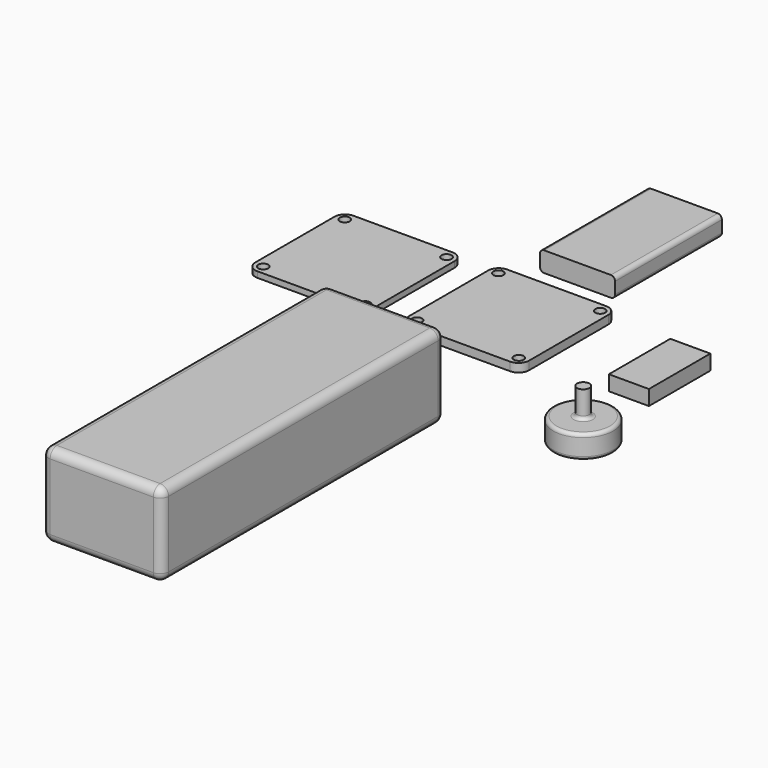
from build123d import *

# Parameters (mm, degrees)
F0_W      = 36
F0_H      = 36
F1_DEPTH  = 2.54
F2_R      = 3.175
F3_R      = 1.5
F4_DEPTH  = 2.54
F5_W      = 12
F5_H      = 23
F6_DEPTH  = 4.5
F7_W      = 36
F7_H      = 36
F8_DEPTH  = 1.75
F9_R      = 1.5
F10_DEPTH = 1.75
F11_R     = 3.175
F12_W     = 22.5
F12_H     = 40
F13_DEPTH = 6
F14_R     = 1.27
F15_W     = 36
F15_H     = 106
F16_DEPTH = 25
F17_R     = 2.54
F18_R     = 9
F19_DEPTH = 7
F20_R     = 1.8417601769
F21_DEPTH = 8
F22_R     = 1


with BuildPart() as f1:
    # F0 (on Top) → F1 (new body)
    with BuildSketch(Plane.XY):
        Rectangle(F0_W, F0_H)
    extrude(amount=F1_DEPTH)

    # F2
    f2_edges = [f1.edges().sort_by_distance(p)[0] for p in [
        (-18, 18, 1.27),
        (18, 18, 1.27),
        (18, -18, 1.27),
        (-18, -18, 1.27),
    ]]
    fillet(f2_edges, radius=F2_R)

    # F3 (on face) → F4 (cut)
    with BuildSketch(Plane.XY.offset(2.54)):
        with Locations((-15.25, 15.25)):
            Circle(F3_R)
        with Locations((15.25, 15.25)):
            Circle(F3_R)
        with Locations((-15.25, -15.25)):
            Circle(F3_R)
        with Locations((15.25, -15.25)):
            Circle(F3_R)
    extrude(amount=-F4_DEPTH, mode=Mode.SUBTRACT)


with BuildPart() as f6:
    # F5 (on Top) → F6 (new body)
    with BuildSketch(Plane.XY):
        with Locations((45.2301464975, 0)):
            Rectangle(F5_W, F5_H)
    extrude(amount=F6_DEPTH)


with BuildPart() as f8:
    # F7 (on Top) → F8 (new body)
    with BuildSketch(Plane.XY):
        with Locations((-46.0366383195, 0)):
            Rectangle(F7_W, F7_H)
    extrude(amount=F8_DEPTH)

    # F9 (on face) → F10 (cut)
    with BuildSketch(Plane.XY.offset(1.75)):
        with Locations((-61.2866383195, 15.25)):
            Circle(F9_R)
        with Locations((-30.7866383195, 15.25)):
            Circle(F9_R)
        with Locations((-61.2866383195, -15.25)):
            Circle(F9_R)
        with Locations((-30.7866383195, -15.25)):
            Circle(F9_R)
    extrude(amount=-F10_DEPTH, mode=Mode.SUBTRACT)

    # F11
    f11_edges = [f8.edges().sort_by_distance(p)[0] for p in [
        (-64.036638, 18, 0.875),
        (-28.036638, 18, 0.875),
        (-28.036638, -18, 0.875),
        (-64.036638, -18, 0.875),
    ]]
    fillet(f11_edges, radius=F11_R)


with BuildPart() as f13:
    # F12 (on Top) → F13 (new body)
    with BuildSketch(Plane.XY):
        with Locations((0, 45.8100624382)):
            Rectangle(F12_W, F12_H)
    extrude(amount=F13_DEPTH)

    # F14
    f14_edges = [f13.edges().sort_by_distance(p)[0] for p in [
        (11.25, 45.810062, 6),
        (11.25, 45.810062, 0),
        (-11.25, 45.810062, 0),
        (-11.25, 45.810062, 6),
    ]]
    fillet(f14_edges, radius=F14_R)


with BuildPart() as f16:
    # F15 (on Top) → F16 (new body)
    with BuildSketch(Plane.XY):
        with Locations((1, -100.6)):
            Rectangle(F15_W, F15_H)
    extrude(amount=F16_DEPTH)

    # F17
    f17_edges = [f16.edges().sort_by_distance(p)[0] for p in [
        (1, -47.6, 25),
        (-17, -100.6, 25),
        (1, -153.6, 25),
        (19, -100.6, 25),
        (-17, -153.6, 12.5),
        (19, -153.6, 12.5),
        (1, -153.6, 0),
        (1, -47.6, 0),
        (-17, -100.6, 0),
        (19, -100.6, 0),
        (19, -47.6, 12.5),
        (-17, -47.6, 12.5),
    ]]
    fillet(f17_edges, radius=F17_R)


with BuildPart() as f19:
    # F18 (on Top) → F19 (new body)
    with BuildSketch(Plane.XY):
        with Locations((50.8, -35.56)):
            Circle(F18_R)
    extrude(amount=F19_DEPTH)

    # F20 (on face) → F21 (join)
    with BuildSketch(Plane.XY.offset(7)):
        with Locations((50.8, -35.56)):
            Circle(F20_R)
    extrude(amount=F21_DEPTH)

    # F22
    f22_edges = [f19.edges().sort_by_distance(p)[0] for p in [
        (41.8, -35.56, 0),
        (41.8, -35.56, 7),
        (48.95824, -35.56, 7),
    ]]
    fillet(f22_edges, radius=F22_R)


solid = Compound([f1.part, f6.part, f8.part, f13.part, f16.part, f19.part])
